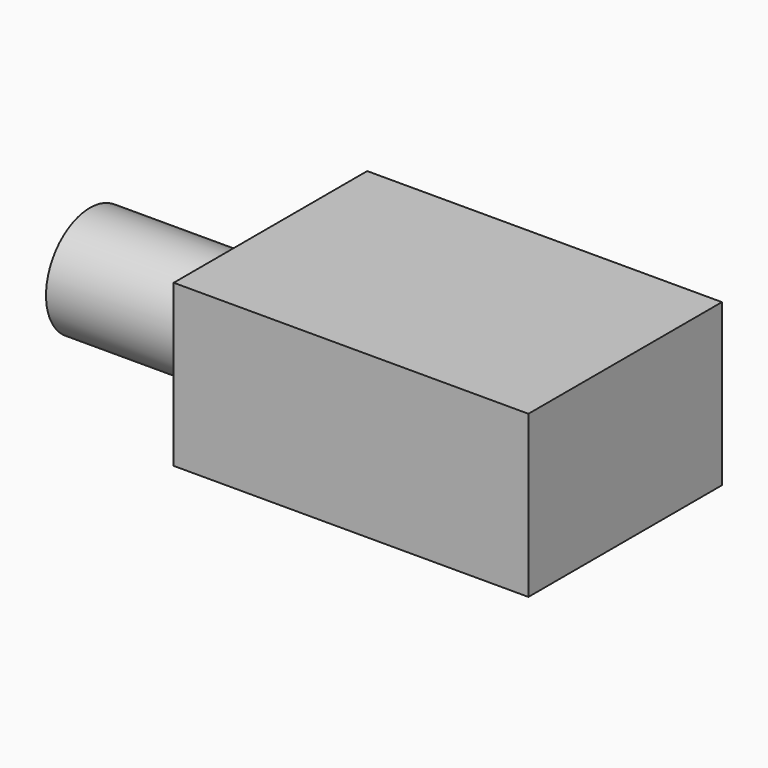
from build123d import *

# Parameters (mm, degrees)
CYLINDER_R                   = 3.4
CYLINDER_DEPTH               = 10
BOX003_W                     = 22
BOX003_H                     = 10
BOX003_DEPTH                 = 15
FUSION002004_PLACEMENT_ANGLE = 90


with BuildPart() as cylinder:
    # Cylinder → Cylinder (new body)
    with BuildSketch(Plane(origin=(-10, 5, 9), x_dir=(0, 0, -1), z_dir=(1, 0, 0))):
        Circle(CYLINDER_R)
    extrude(amount=CYLINDER_DEPTH)


with BuildPart() as potentiometer:
    # Box003 → Box003 (new body)
    with BuildSketch(Plane.XY):
        with Locations((11, 5)):
            Rectangle(BOX003_W, BOX003_H)
    extrude(amount=BOX003_DEPTH)

    # Fusion002004: union Cylinder
    add(cylinder.part)


with BuildPart() as potentiometer_1:
    # Fusion002004 placement: moved
    add(potentiometer.part.moved(Location((-36, 57, 21))).rotate(Axis((-36, 57, 21), (1, 0, 0)), FUSION002004_PLACEMENT_ANGLE))


solid = potentiometer_1.part
